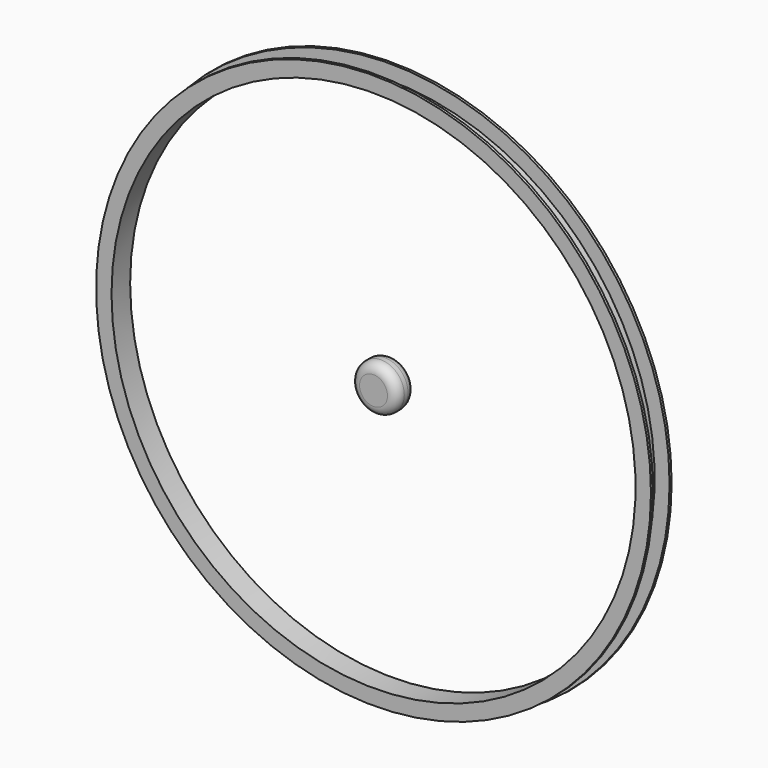
from build123d import *

# Parameters (mm, degrees)
F0_R     = 304.8
F2_DEPTH = 25.4
F2_TAPER = 5
F3_D     = 571.5
F4_T     = -2.54
F5_R     = 25.4
F6_DEPTH = 25.4
F7_R     = 10.16
F8_R     = 10.16


with BuildPart() as f2:
    # F0 (on Front) → F2 (new body)
    with BuildSketch(Plane.XZ):
        Circle(F0_R)
    extrude(amount=F2_DEPTH, taper=F2_TAPER)

    # F3 (through all)
    with Locations(Plane(origin=(0, 0, 0), x_dir=(1, 0, 0), z_dir=(0, 1, 0))):
        with Locations((0, 0)):
            Hole(F3_D / 2)

    # F4
    f4_openings = [f2.faces().sort_by_distance(p)[0] for p in [
        (-303.688894, -12.7, 0),
    ]]
    offset(amount=F4_T, openings=f4_openings)


with BuildPart() as f6:
    # F5 (on face) → F6 (new body)
    with BuildSketch(Plane.XZ):
        Circle(F5_R)
    extrude(amount=F6_DEPTH)

    # F7
    f7_edges = [f6.edges().sort_by_distance(p)[0] for p in [
        (-25.4, -25.4, 0),
    ]]
    fillet(f7_edges, radius=F7_R)

    # F8
    f8_edges = [f6.edges().sort_by_distance(p)[0] for p in [
        (-25.4, 0, 0),
    ]]
    fillet(f8_edges, radius=F8_R)


solid = Compound([f2.part, f6.part])
